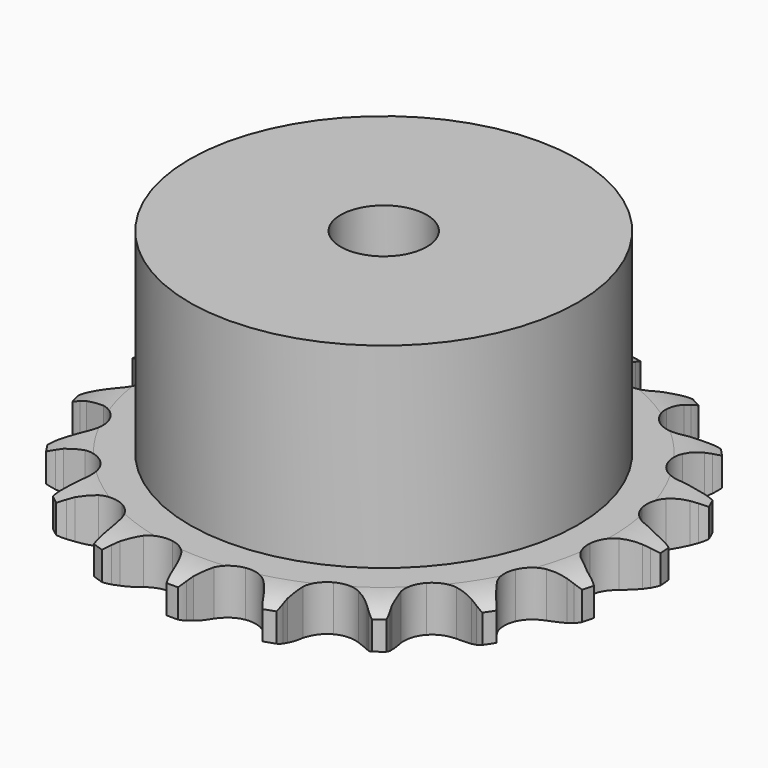
from build123d import *

# Parameters (mm, degrees)
PAD_DEPTH         = 5.3
SKETCH001_R       = 22.5
PAD001_DEPTH      = 28
SKETCH002_R       = 5
POCKET_DEPTH      = 0.001
POCKET_DEPTH_BACK = -28.001


with BuildPart() as part:
    # Sprocket → Pad (new body)
    with BuildSketch(Plane.XY):
        with BuildLine():
            ThreePointArc((-5.227902, 31.3291), (-4.494074, 30.495711), (-3.952481, 29.52632))
            Line((-3.952481, 29.52632), (-3.648014, 28.812689))
            ThreePointArc((-3.648014, 28.812689), (-3.155091, 27.839756), (-2.538979, 26.93977))
            ThreePointArc((-2.538979, 26.93977), (-1.411489, 26.030599), (0, 25.705755))
            ThreePointArc((0, 25.705755), (1.411489, 26.030599), (2.538979, 26.93977))
            ThreePointArc((2.538979, 26.93977), (3.155091, 27.839756), (3.648014, 28.812689))
            Line((3.648014, 28.812689), (3.952481, 29.52632))
            ThreePointArc((3.952481, 29.52632), (4.494074, 30.495711), (5.227902, 31.3291))
            ThreePointArc((5.227902, 31.3291), (5.651368, 30.302593), (5.848856, 29.209872))
            Line((5.848856, 29.209872), (5.90511, 28.436046))
            ThreePointArc((5.90511, 28.436046), (6.055414, 27.355778), (6.345919, 26.304504))
            ThreePointArc((6.345919, 26.304504), (7.117111, 25.078499), (8.346645, 24.312946))
            ThreePointArc((8.346645, 24.312946), (9.787132, 24.161879), (11.148739, 24.655694))
            Line((11.148739, 24.655694), (12.805819, 26.067029))
            ThreePointArc((12.805819, 26.067029), (13.058934, 26.361151), (13.325505, 26.643134))
            ThreePointArc((13.325505, 26.643134), (14.152514, 27.384146), (15.117182, 27.934106))
            ThreePointArc((15.117182, 27.934106), (15.184397, 26.825718), (15.016378, 25.72808))
            Line((15.016378, 25.72808), (14.818324, 24.977916))
            ThreePointArc((14.818324, 24.977916), (14.609722, 23.907377), (14.543138, 22.818737))
            ThreePointArc((14.543138, 22.818737), (14.874461, 21.408755), (15.788801, 20.285452))
            ThreePointArc((15.788801, 20.285452), (17.102188, 19.674845), (18.55036, 19.699791))
            Line((18.55036, 19.699791), (20.575915, 20.496603))
            ThreePointArc((20.575915, 20.496603), (20.910817, 20.692602), (21.254504, 20.872751))
            ThreePointArc((21.254504, 20.872751), (22.277309, 21.305083), (23.368281, 21.512018))
            ThreePointArc((23.368281, 21.512018), (23.071961, 20.441861), (22.556643, 19.458251))
            Line((22.556643, 19.458251), (22.125743, 18.813042))
            ThreePointArc((22.125743, 18.813042), (21.580839, 17.86824), (21.164382, 16.860206))
            ThreePointArc((21.164382, 16.860206), (21.019933, 15.419039), (21.519996, 14.059715))
            ThreePointArc((21.519996, 14.059715), (22.563956, 13.055737), (23.941762, 12.609109))
            Line((23.941762, 12.609109), (26.116291, 12.705052))
            ThreePointArc((26.116291, 12.705052), (26.496688, 12.781689), (26.880248, 12.840482))
            ThreePointArc((26.880248, 12.840482), (27.988012, 12.917285), (29.087064, 12.758769))
            ThreePointArc((29.087064, 12.758769), (28.45932, 11.842811), (27.652546, 11.079819))
            Line((27.652546, 11.079819), (27.035494, 10.609482))
            ThreePointArc((27.035494, 10.609482), (26.213338, 9.892802), (25.492138, 9.074609))
            ThreePointArc((25.492138, 9.074609), (24.887569, 7.758432), (24.919166, 6.31039))
            ThreePointArc((24.919166, 6.31039), (25.580569, 5.021836), (26.738703, 4.152036))
            Line((26.738703, 4.152036), (28.826562, 3.536711))
            ThreePointArc((28.826562, 3.536711), (29.211232, 3.485681), (29.5931, 3.416747))
            ThreePointArc((29.5931, 3.416747), (30.66578, 3.129698), (31.653812, 2.62291))
            ThreePointArc((31.653812, 2.62291), (30.76267, 1.960409), (29.751866, 1.500717))
            Line((29.751866, 1.500717), (29.015529, 1.256221))
            ThreePointArc((29.015529, 1.256221), (28.005215, 0.845326), (27.057424, 0.305639))
            ThreePointArc((27.057424, 0.305639), (26.058251, -0.742922), (25.617957, -2.122764))
            ThreePointArc((25.617957, -2.122764), (25.825131, -3.556258), (26.63809, -4.754976))
            Line((26.63809, -4.754976), (28.413028, -6.014887))
            ThreePointArc((28.413028, -6.014887), (28.760286, -6.188054), (29.09908, -6.377246))
            ThreePointArc((29.09908, -6.377246), (30.020435, -6.99704), (30.790378, -7.797183))
            ThreePointArc((30.790378, -7.797183), (29.732408, -8.134434), (28.62711, -8.241011))
            Line((28.62711, -8.241011), (27.851282, -8.233171))
            ThreePointArc((27.851282, -8.233171), (26.762292, -8.293754), (25.690619, -8.496453))
            ThreePointArc((25.690619, -8.496453), (24.405117, -9.163768), (23.540645, -10.325884))
            ThreePointArc((23.540645, -10.325884), (23.271139, -11.748977), (23.650826, -13.146712))
            Line((23.650826, -13.146712), (24.920501, -14.914679))
            ThreePointArc((24.920501, -14.914679), (25.192716, -15.191218), (25.451723, -15.480165))
            ThreePointArc((25.451723, -15.480165), (26.12191, -16.365541), (26.59033, -17.372329))
            ThreePointArc((26.59033, -17.372329), (25.480177, -17.347785), (24.400163, -17.089698))
            Line((24.400163, -17.089698), (23.668916, -16.830372))
            ThreePointArc((23.668916, -16.830372), (22.619259, -16.534078), (21.539837, -16.377822))
            ThreePointArc((21.539837, -16.377822), (20.10731, -16.591578), (18.912338, -17.410034))
            ThreePointArc((18.912338, -17.410034), (18.195358, -18.668511), (18.100629, -20.113797))
            Line((18.100629, -20.113797), (18.727451, -22.198234))
            ThreePointArc((18.727451, -22.198234), (18.895125, -22.548177), (19.046277, -22.905568))
            ThreePointArc((19.046277, -22.905568), (19.39267, -23.960581), (19.508806, -25.064915))
            ThreePointArc((19.508806, -25.064915), (18.466774, -24.681234), (17.529079, -24.086451))
            Line((17.529079, -24.086451), (16.921656, -23.603741))
            ThreePointArc((16.921656, -23.603741), (16.025079, -22.982678), (15.054879, -22.4844))
            ThreePointArc((15.054879, -22.4844), (13.630563, -22.221434), (12.234587, -22.607537))
            ThreePointArc((12.234587, -22.607537), (11.147828, -23.565023), (10.588948, -24.901241))
            Line((10.588948, -24.901241), (10.504992, -27.076266))
            ThreePointArc((10.504992, -27.076266), (10.549954, -27.461692), (10.576872, -27.848797))
            ThreePointArc((10.576872, -27.848797), (10.561934, -28.95912), (10.313201, -30.041327))
            ThreePointArc((10.313201, -30.041327), (9.45221, -29.340089), (8.758447, -28.473063))
            Line((8.758447, -28.473063), (8.340672, -27.819278))
            ThreePointArc((8.340672, -27.819278), (7.694333, -26.940747), (6.938491, -26.154444))
            ThreePointArc((6.938491, -26.154444), (5.676734, -25.443252), (4.231028, -25.355162))
            ThreePointArc((4.231028, -25.355162), (2.892257, -25.907899), (1.92979, -26.990249))
            Line((1.92979, -26.990249), (1.144153, -29.020164))
            ThreePointArc((1.144153, -29.020164), (1.061531, -29.399306), (0.961298, -29.774177))
            ThreePointArc((0.961298, -29.774177), (0.586648, -30.819489), (0, -31.762296))
            ThreePointArc((0, -31.762296), (-0.586648, -30.819489), (-0.961298, -29.774177))
            Line((-0.961298, -29.774177), (-1.144153, -29.020164))
            ThreePointArc((-1.144153, -29.020164), (-1.470213, -27.979369), (-1.92979, -26.990249))
            ThreePointArc((-1.92979, -26.990249), (-2.892257, -25.907899), (-4.231028, -25.355162))
            ThreePointArc((-4.231028, -25.355162), (-5.676734, -25.443252), (-6.938491, -26.154444))
            Line((-6.938491, -26.154444), (-8.340672, -27.819278))
            ThreePointArc((-8.340672, -27.819278), (-8.541924, -28.151049), (-8.758447, -28.473063))
            ThreePointArc((-8.758447, -28.473063), (-9.45221, -29.340089), (-10.313201, -30.041327))
            ThreePointArc((-10.313201, -30.041327), (-10.561934, -28.95912), (-10.576872, -27.848797))
            Line((-10.576872, -27.848797), (-10.504992, -27.076266))
            ThreePointArc((-10.504992, -27.076266), (-10.47544, -25.985992), (-10.588948, -24.901241))
            ThreePointArc((-10.588948, -24.901241), (-11.147828, -23.565023), (-12.234587, -22.607537))
            ThreePointArc((-12.234587, -22.607537), (-13.630563, -22.221434), (-15.054879, -22.4844))
            Line((-15.054879, -22.4844), (-16.921656, -23.603741))
            ThreePointArc((-16.921656, -23.603741), (-17.21973, -23.852189), (-17.529079, -24.086451))
            ThreePointArc((-17.529079, -24.086451), (-18.466774, -24.681234), (-19.508806, -25.064915))
            ThreePointArc((-19.508806, -25.064915), (-19.39267, -23.960581), (-19.046277, -22.905568))
            Line((-19.046277, -22.905568), (-18.727451, -22.198234))
            ThreePointArc((-18.727451, -22.198234), (-18.345489, -21.17663), (-18.100629, -20.113797))
            ThreePointArc((-18.100629, -20.113797), (-18.195358, -18.668511), (-18.912338, -17.410034))
            ThreePointArc((-18.912338, -17.410034), (-20.10731, -16.591578), (-21.539837, -16.377822))
            Line((-21.539837, -16.377822), (-23.668916, -16.830372))
            ThreePointArc((-23.668916, -16.830372), (-24.031511, -16.968575), (-24.400163, -17.089698))
            ThreePointArc((-24.400163, -17.089698), (-25.480177, -17.347785), (-26.59033, -17.372329))
            ThreePointArc((-26.59033, -17.372329), (-26.12191, -16.365541), (-25.451723, -15.480165))
            Line((-25.451723, -15.480165), (-24.920501, -14.914679))
            ThreePointArc((-24.920501, -14.914679), (-24.227521, -14.072451), (-23.650826, -13.146712))
            ThreePointArc((-23.650826, -13.146712), (-23.271139, -11.748977), (-23.540645, -10.325884))
            ThreePointArc((-23.540645, -10.325884), (-24.405117, -9.163768), (-25.690619, -8.496453))
            Line((-25.690619, -8.496453), (-27.851282, -8.233171))
            ThreePointArc((-27.851282, -8.233171), (-28.239105, -8.246152), (-28.62711, -8.241011))
            ThreePointArc((-28.62711, -8.241011), (-29.732408, -8.134434), (-30.790378, -7.797183))
            ThreePointArc((-30.790378, -7.797183), (-30.020435, -6.99704), (-29.09908, -6.377246))
            Line((-29.09908, -6.377246), (-28.413028, -6.014887))
            ThreePointArc((-28.413028, -6.014887), (-27.484124, -5.443304), (-26.63809, -4.754976))
            ThreePointArc((-26.63809, -4.754976), (-25.825131, -3.556258), (-25.617957, -2.122764))
            ThreePointArc((-25.617957, -2.122764), (-26.058251, -0.742922), (-27.057424, 0.305639))
            Line((-27.057424, 0.305639), (-29.015529, 1.256221))
            ThreePointArc((-29.015529, 1.256221), (-29.386553, 1.36987), (-29.751866, 1.500717))
            ThreePointArc((-29.751866, 1.500717), (-30.76267, 1.960409), (-31.653812, 2.62291))
            ThreePointArc((-31.653812, 2.62291), (-30.66578, 3.129698), (-29.5931, 3.416747))
            Line((-29.5931, 3.416747), (-28.826562, 3.536711))
            ThreePointArc((-28.826562, 3.536711), (-27.762396, 3.77571), (-26.738703, 4.152036))
            ThreePointArc((-26.738703, 4.152036), (-25.580569, 5.021836), (-24.919166, 6.31039))
            ThreePointArc((-24.919166, 6.31039), (-24.887569, 7.758432), (-25.492138, 9.074609))
            Line((-25.492138, 9.074609), (-27.035494, 10.609482))
            ThreePointArc((-27.035494, 10.609482), (-27.349513, 10.837445), (-27.652546, 11.079819))
            ThreePointArc((-27.652546, 11.079819), (-28.45932, 11.842811), (-29.087064, 12.758769))
            ThreePointArc((-29.087064, 12.758769), (-27.988012, 12.917285), (-26.880248, 12.840482))
            Line((-26.880248, 12.840482), (-26.116291, 12.705052))
            ThreePointArc((-26.116291, 12.705052), (-25.032182, 12.585567), (-23.941762, 12.609109))
            ThreePointArc((-23.941762, 12.609109), (-22.563956, 13.055737), (-21.519996, 14.059715))
            ThreePointArc((-21.519996, 14.059715), (-21.019933, 15.419039), (-21.164382, 16.860206))
            Line((-21.164382, 16.860206), (-22.125743, 18.813042))
            ThreePointArc((-22.125743, 18.813042), (-22.348728, 19.130614), (-22.556643, 19.458251))
            ThreePointArc((-22.556643, 19.458251), (-23.071961, 20.441861), (-23.368281, 21.512018))
            ThreePointArc((-23.368281, 21.512018), (-22.277309, 21.305083), (-21.254504, 20.872751))
            Line((-21.254504, 20.872751), (-20.575915, 20.496603))
            ThreePointArc((-20.575915, 20.496603), (-19.589342, 20.031582), (-18.55036, 19.699791))
            ThreePointArc((-18.55036, 19.699791), (-17.102188, 19.674845), (-15.788801, 20.285452))
            ThreePointArc((-15.788801, 20.285452), (-14.874461, 21.408755), (-14.543138, 22.818737))
            Line((-14.543138, 22.818737), (-14.818324, 24.977916))
            ThreePointArc((-14.818324, 24.977916), (-14.926112, 25.350685), (-15.016378, 25.72808))
            ThreePointArc((-15.016378, 25.72808), (-15.184397, 26.825718), (-15.117182, 27.934106))
            ThreePointArc((-15.117182, 27.934106), (-14.152514, 27.384146), (-13.325505, 26.643134))
            Line((-13.325505, 26.643134), (-12.805819, 26.067029))
            ThreePointArc((-12.805819, 26.067029), (-12.023694, 25.306865), (-11.148739, 24.655694))
            ThreePointArc((-11.148739, 24.655694), (-9.787132, 24.161879), (-8.346645, 24.312946))
            ThreePointArc((-8.346645, 24.312946), (-7.117111, 25.078499), (-6.345919, 26.304504))
            Line((-6.345919, 26.304504), (-5.90511, 28.436046))
            ThreePointArc((-5.90511, 28.436046), (-5.88602, 28.823616), (-5.848856, 29.209872))
            ThreePointArc((-5.848856, 29.209872), (-5.651368, 30.302593), (-5.227902, 31.3291))
        make_face()
    extrude(amount=PAD_DEPTH)

    # Sketch → Groove (revolve, cut)
    with BuildSketch(Plane.XZ):
        with BuildLine():
            Line((26.291101, 0), (30.65, 0))
            Line((35.008899, 0), (30.65, 0))
            Line((35.008899, 5.3), (35.008899, 0))
            Line((30.65, 5.3), (35.008899, 5.3))
            Line((26.291101, 5.3), (30.65, 5.3))
            ThreePointArc((30.65, 4.3), (28.527169, 5.046794), (26.291101, 5.3))
            Line((30.65, 1), (30.65, 4.3))
            ThreePointArc((26.291101, 0), (28.527169, 0.253206), (30.65, 1))
        make_face()
    revolve(axis=Axis((0, 0, 0), (0, 0, 1)), mode=Mode.SUBTRACT)

    # Sketch001 → Pad001 (join)
    with BuildSketch(Plane.XY):
        Circle(SKETCH001_R)
    extrude(amount=PAD001_DEPTH)

    # Sketch002 → Pocket (cut, two sides)
    with BuildSketch(Plane.XY) as pocket_sk:
        Circle(SKETCH002_R)
    extrude(amount=-POCKET_DEPTH, mode=Mode.SUBTRACT)
    extrude(pocket_sk.sketch, amount=-POCKET_DEPTH_BACK, mode=Mode.SUBTRACT)


solid = part.part
